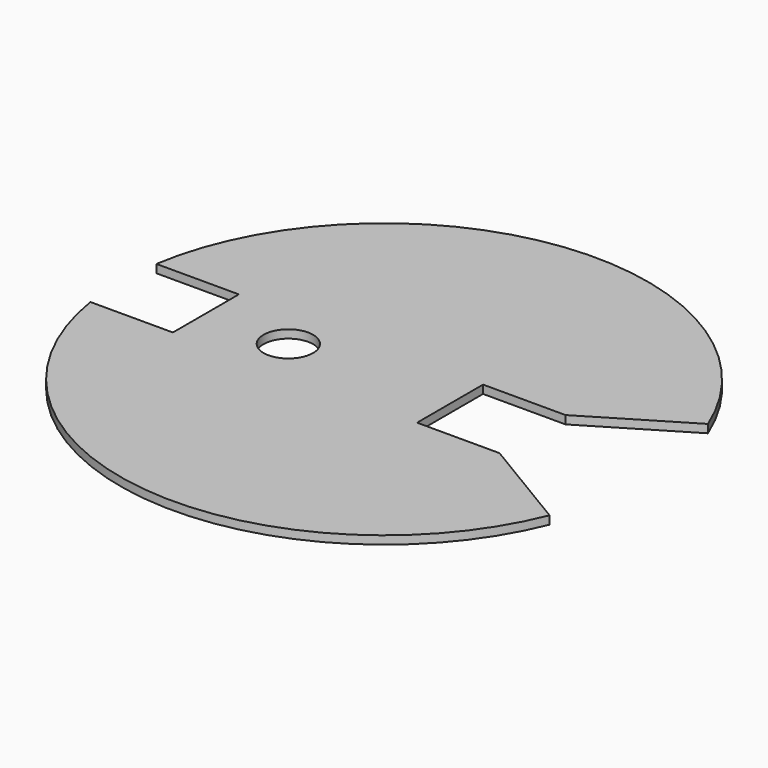
from build123d import *

# Parameters (mm, degrees)
F0_R     = 203.2
F1_DEPTH = 6.35
F3_DEPTH = 6.351
F5_DEPTH = 6.351
F6_R     = 19.05
F7_DEPTH = 6.351


with BuildPart() as f1:
    # F0 (on Top) → F1 (new body)
    with BuildSketch(Plane.XY):
        Circle(F0_R)
    extrude(amount=F1_DEPTH)

    # F2 (on face) → F3 (cut, through all)
    with BuildSketch(Plane.XY.offset(6.35)):
        with BuildLine():
            ThreePointArc((-200.704204, 31.75), (-203.2, 0), (-200.704204, -31.75))
            Line((-200.704204, -31.75), (-137.204204, -31.75))
            Line((-137.204204, -31.75), (-137.204204, 31.75))
            Line((-137.204204, 31.75), (-200.704204, 31.75))
        make_face()
    extrude(amount=-F3_DEPTH, mode=Mode.SUBTRACT)

    # F4 (on face) → F5 (cut, through all)
    with BuildSketch(Plane.XY.offset(6.35)):
        Polygon((50.8, 31.75), (50.8, -31.75), (114.3, -31.75), (188.371442, -76.2), (188.371442, 76.2), (114.3, 31.75), align=None)
        with BuildLine():
            Line((188.371442, 76.2), (188.371442, -76.2))
            ThreePointArc((188.371442, -76.2), (203.2, 0), (188.371442, 76.2))
        make_face()
    extrude(amount=-F5_DEPTH, mode=Mode.SUBTRACT)

    # F6 (on face) → F7 (cut, through all)
    with BuildSketch(Plane.XY.offset(6.35)):
        with Locations((-73.704204, 0)):
            Circle(F6_R)
    extrude(amount=-F7_DEPTH, mode=Mode.SUBTRACT)


solid = f1.part
